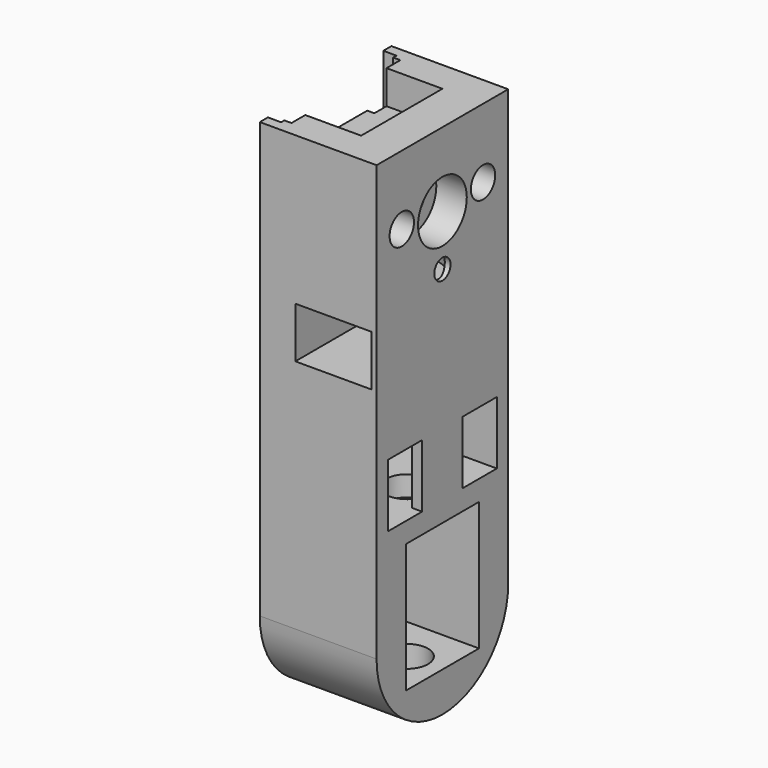
from build123d import *

# Parameters (mm, degrees)
SKETCH_W         = 4.2
SKETCH_H         = 6.2
EXTRUDE_DEPTH    = 11.5
SKETCH001_W      = 14.2
SKETCH001_H      = 32.3
SKETCH001_R      = 1.55
EXTRUDE001_DEPTH = 1.3
SKETCH003_W      = 10
SKETCH003_H      = 4.382065
EXTRUDE003_DEPTH = 7.5
SKETCH004_W      = 13.4
SKETCH004_H      = 32.3
SKETCH004_W_2    = 7
SKETCH004_H_2    = 6
EXTRUDE004_DEPTH = 2
SKETCH005_W      = 6
SKETCH005_H      = 8
EXTRUDE005_DEPTH = 3
SKETCH009_W      = 18
SKETCH009_H      = 5
EXTRUDE013_DEPTH = 7.5
SKETCH012_W      = 9
SKETCH012_H      = 12.7
EXTRUDE014_DEPTH = 11.5
SKETCH011_R      = 2.08
EXTRUDE012_DEPTH = 20
SKETCH002_W      = 5
SKETCH002_H      = 12.2
EXTRUDE011_DEPTH = 10.5
EXTRUDE015_DEPTH = 3
SKETCH014_R      = 1
EXTRUDE016_DEPTH = 12
SKETCH015_R      = 1.5
EXTRUDE017_DEPTH = 11.5
SKETCH016_R      = 3
EXTRUDE018_DEPTH = 3
SKETCH010_R      = 1.55
EXTRUDE010_DEPTH = 12
EXTRUDE006_DEPTH = 11.5


with BuildPart() as extrude_body:
    # Sketch → Extrude (new body)
    with BuildSketch(Plane.YZ):
        with Locations((4.6, 3.1)):
            Rectangle(SKETCH_W, SKETCH_H)
    extrude(amount=EXTRUDE_DEPTH)


with BuildPart() as extrude001:
    # Sketch001 → Extrude001 (new body)
    with BuildSketch(Plane.YZ):
        with Locations((0, 16.15)):
            Rectangle(SKETCH001_W, SKETCH001_H)
        with Locations((0, 25)):
            Circle(SKETCH001_R, mode=Mode.SUBTRACT)
    extrude(amount=EXTRUDE001_DEPTH)


with BuildPart() as extrude003:
    # Sketch003 → Extrude003 (new body)
    with BuildSketch(Plane.YZ):
        with Locations((0, 31.191032)):
            Rectangle(SKETCH003_W, SKETCH003_H)
    extrude(amount=EXTRUDE003_DEPTH)


with BuildPart() as extrude004:
    # Sketch004 → Extrude004 (new body)
    with BuildSketch(Plane.YZ):
        with Locations((0, 16.15)):
            Rectangle(SKETCH004_W, SKETCH004_H)
        with Locations((0, 26)):
            Rectangle(SKETCH004_W_2, SKETCH004_H_2, mode=Mode.SUBTRACT)
    extrude(amount=EXTRUDE004_DEPTH)


with BuildPart() as extrude005:
    # Sketch005 → Extrude005 (new body)
    with BuildSketch(Plane.YZ):
        with Locations((3.5, 16)):
            Rectangle(SKETCH005_W, SKETCH005_H)
    extrude(amount=EXTRUDE005_DEPTH)


with BuildPart() as board:
    # Part__Mirroring: instance of Extrude body
    add(extrude_body.part.mirror(Plane(origin=(0, 0, 0), x_dir=(1, 0, 0), z_dir=(0, 1, 0))))

    # Fusion: union Extrude body, Extrude001, Extrude003, Extrude004, Extrude005
    add(extrude_body.part)
    add(extrude001.part)
    add(extrude003.part)
    add(extrude004.part)
    add(extrude005.part)


with BuildPart() as obj1:
    # Sketch009 → Extrude013 (new body)
    with BuildSketch(Plane.YZ):
        with Locations((0, 15.2)):
            Rectangle(SKETCH009_W, SKETCH009_H)
    extrude(amount=EXTRUDE013_DEPTH)


with BuildPart() as obj1_1:
    # Extrude013 placement: moved
    add(obj1.part.moved(Location((3.5, 0, 0))))


with BuildPart() as obj2:
    # Sketch012 → Extrude014 (new body)
    with BuildSketch(Plane.YZ):
        with Locations((0, -8.35)):
            Rectangle(SKETCH012_W, SKETCH012_H)
    extrude(amount=EXTRUDE014_DEPTH)


with BuildPart() as percageaxe:
    # Sketch011 → Extrude012 (new body)
    with BuildSketch(Plane.XY):
        with Locations((8, 0)):
            Circle(SKETCH011_R)
    extrude(amount=-EXTRUDE012_DEPTH)


with BuildPart() as obj3:
    # Sketch002 → Extrude011 (new body)
    with BuildSketch(Plane.YZ):
        with Locations((0, 6.1)):
            Rectangle(SKETCH002_W, SKETCH002_H)
    extrude(amount=EXTRUDE011_DEPTH)


with BuildPart() as obj4:
    # Sketch013 → Extrude015 (new body)
    with BuildSketch(Plane.XY):
        with BuildLine():
            ThreePointArc((6.780369, -2.85), (11.1, 0), (6.780369, 2.85))
            ThreePointArc((6.780369, 2.85), (6.183233, 3.036857), (5.560738, 3.1))
            Line((5.560738, 3.1), (0, 3.1))
            Line((0, -3.1), (0, 3.1))
            Line((5.560738, -3.1), (0, -3.1))
            ThreePointArc((5.560738, -3.1), (6.183233, -3.036857), (6.780369, -2.85))
        make_face()
    extrude(amount=EXTRUDE015_DEPTH)


with BuildPart() as obj4_1:
    # Extrude015 placement: moved
    add(obj4.part.moved(Location((0, 0, 18.5))))


with BuildPart() as obj5:
    # Sketch014 → Extrude016 (new body)
    with BuildSketch(Plane.YZ):
        Circle(SKETCH014_R)
    extrude(amount=EXTRUDE016_DEPTH)


with BuildPart() as obj5_1:
    # Extrude016 placement: moved
    add(obj5.part.moved(Location((0, 0, 20))))


with BuildPart() as obj6:
    # Sketch015 → Extrude017 (new body)
    with BuildSketch(Plane.YZ):
        with Locations((-5, 25.5)):
            Circle(SKETCH015_R)
        with Locations((5, 25.5)):
            Circle(SKETCH015_R)
    extrude(amount=EXTRUDE017_DEPTH)


with BuildPart() as obj7:
    # Sketch016 → Extrude018 (new body)
    with BuildSketch(Plane.YZ):
        with Locations((0, 25)):
            Circle(SKETCH016_R)
    extrude(amount=EXTRUDE018_DEPTH)


with BuildPart() as obj7_1:
    # Extrude018 placement: moved
    add(obj7.part.moved(Location((8.5, 0, 0))))


with BuildPart() as fusion002:
    # Sketch010 → Extrude010 (new body)
    with BuildSketch(Plane.YZ):
        with Locations((0, 25)):
            Circle(SKETCH010_R)
    extrude(amount=EXTRUDE010_DEPTH)

    # Fusion002: union obj1, obj2, PercageAxe, obj3, obj4, obj5, obj6, obj7
    add(obj1_1.part)
    add(obj2.part)
    add(percageaxe.part)
    add(obj3.part)
    add(obj4_1.part)
    add(obj5_1.part)
    add(obj6.part)
    add(obj7_1.part)


with BuildPart() as cut001:
    # Sketch006 → Extrude006 (new body)
    with BuildSketch(Plane.YZ):
        with BuildLine():
            Line((-8.1, 32.3), (8.1, 32.3))
            Line((8.1, -10.5), (8.1, 32.3))
            ThreePointArc((-8.1, -10.5), (0, -18.6), (8.1, -10.5))
            Line((-8.1, 32.3), (-8.1, -10.5))
        make_face()
    extrude(amount=EXTRUDE006_DEPTH)

    # Cut: cut Fusion002
    add(fusion002.part, mode=Mode.SUBTRACT)

    # Cut001: cut Board
    add(board.part, mode=Mode.SUBTRACT)


solid = cut001.part
